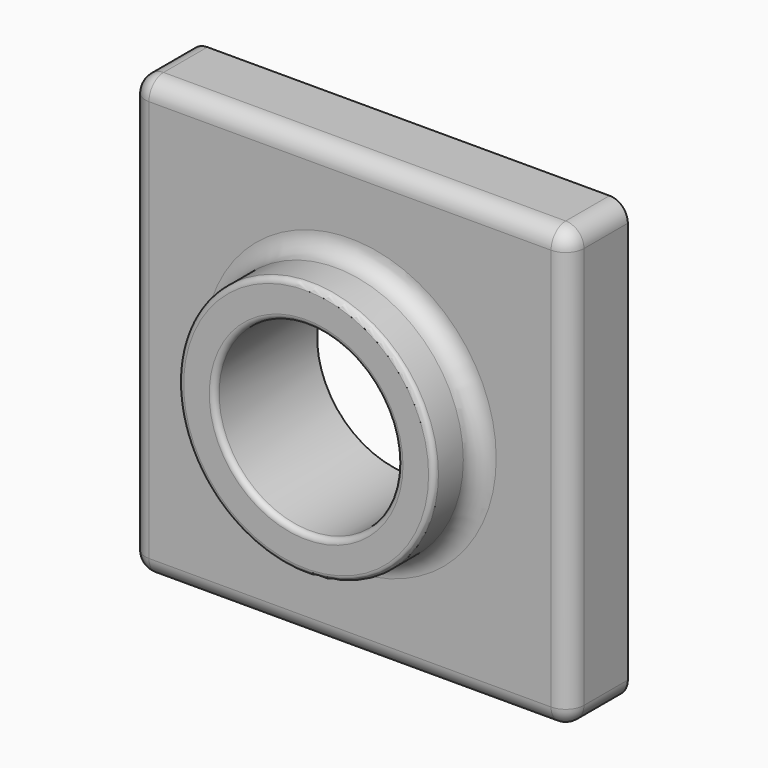
from build123d import *

# Parameters (mm, degrees)
F4_W     = 120
F4_H     = 120
F0_DEPTH = 20
F5_R     = 35
F1_DEPTH = 15
F2_R     = 25
F6_DEPTH = 35
F3_R     = 5
F7_R     = 1.5
F8_T     = -2


with BuildPart() as f0:
    # F4 (on Front) → F0 (new body)
    with BuildSketch(Plane.XZ):
        with Locations((60, 60)):
            Rectangle(F4_W, F4_H)
    extrude(amount=F0_DEPTH)

    # F5 (on face) → F1 (join)
    with BuildSketch(Plane.XZ.offset(20)):
        with Locations((60, 60)):
            Circle(F5_R)
    extrude(amount=F1_DEPTH)

    # F2 (on face) → F6 (cut, through all)
    with BuildSketch(Plane.XZ.offset(35)):
        with Locations((60, 60)):
            Circle(F2_R)
    extrude(amount=-F6_DEPTH, mode=Mode.SUBTRACT)

    # F3
    f3_edges = [f0.edges().sort_by_distance(p)[0] for p in [
        (120, -10, 120),
        (60, -20, 120),
        (120, -20, 60),
        (60, -20, 0),
        (0, -20, 60),
        (0, -10, 120),
        (0, -10, 0),
        (120, -10, 0),
        (25, -20, 60),
    ]]
    fillet(f3_edges, radius=F3_R)

    # F7
    f7_edges = [f0.edges().sort_by_distance(p)[0] for p in [
        (25, -35, 60),
        (35, -35, 60),
    ]]
    fillet(f7_edges, radius=F7_R)

    # F8
    f8_openings = [f0.faces().sort_by_distance(p)[0] for p in [
        (1.697056, 0, 60),
    ]]
    offset(amount=F8_T, openings=f8_openings)


solid = f0.part
